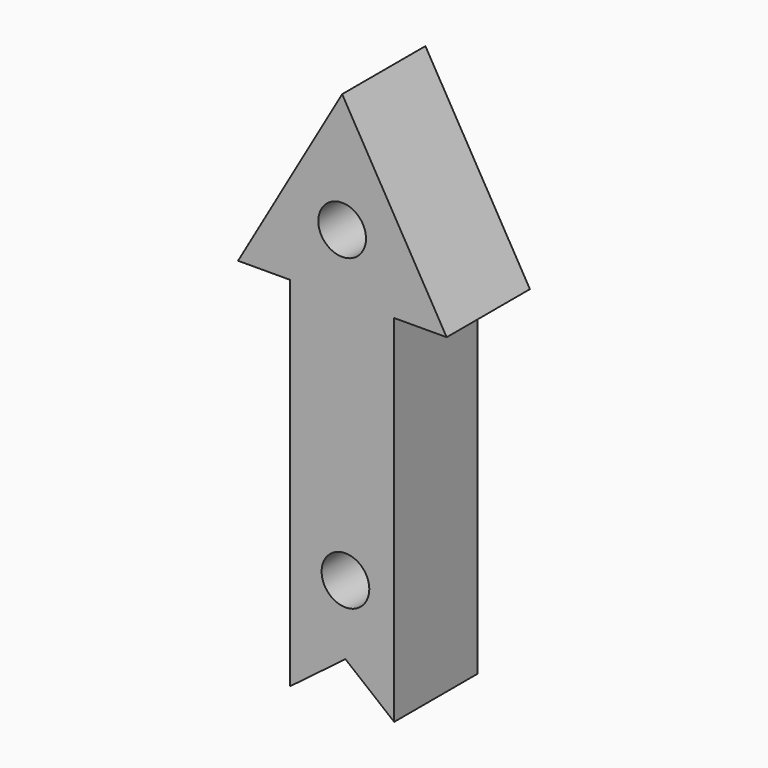
from build123d import *

# Parameters (mm, degrees)
F0_R     = 4.365625
F1_DEPTH = 19.05


with BuildPart() as f1:
    # F0 (on Front) → F1 (new body)
    with BuildSketch(Plane.XZ):
        with BuildLine():
            ThreePointArc((-4.968861, 51.842821), (-0.603236, 56.208446), (3.762389, 51.842821))
            Line((3.762389, 51.842821), (8.921764, 51.842821))
            Line((8.921764, 51.842821), (8.921764, 40.727447))
            Line((8.921764, 40.727447), (18.526586, 40.751948))
            Line((18.526586, 40.751948), (-0.603236, 73.701302))
            Line((-0.603236, 73.701302), (-19.653236, 40.654553))
            Line((-19.653236, 40.654553), (-10.128236, 40.678851))
            Line((-10.128236, 40.678851), (-10.128236, 51.842821))
            Line((-10.128236, 51.842821), (-4.968861, 51.842821))
        make_face()
        Polygon((8.921764, -24.357179), (8.921764, 40.727447), (-10.128236, 40.678851), (-10.128236, -24.804613), (0, -17.142445), align=None)
        with Locations((0, -4.442445)):
            Circle(F0_R, mode=Mode.SUBTRACT)
        with BuildLine():
            Line((8.921764, 51.842821), (3.762389, 51.842821))
            ThreePointArc((3.762389, 51.842821), (-0.603236, 47.477196), (-4.968861, 51.842821))
            Line((-4.968861, 51.842821), (-10.128236, 51.842821))
            Line((-10.128236, 51.842821), (-10.128236, 40.678851))
            Line((-10.128236, 40.678851), (8.921764, 40.727447))
            Line((8.921764, 40.727447), (8.921764, 51.842821))
        make_face()
    extrude(amount=F1_DEPTH)


solid = f1.part
